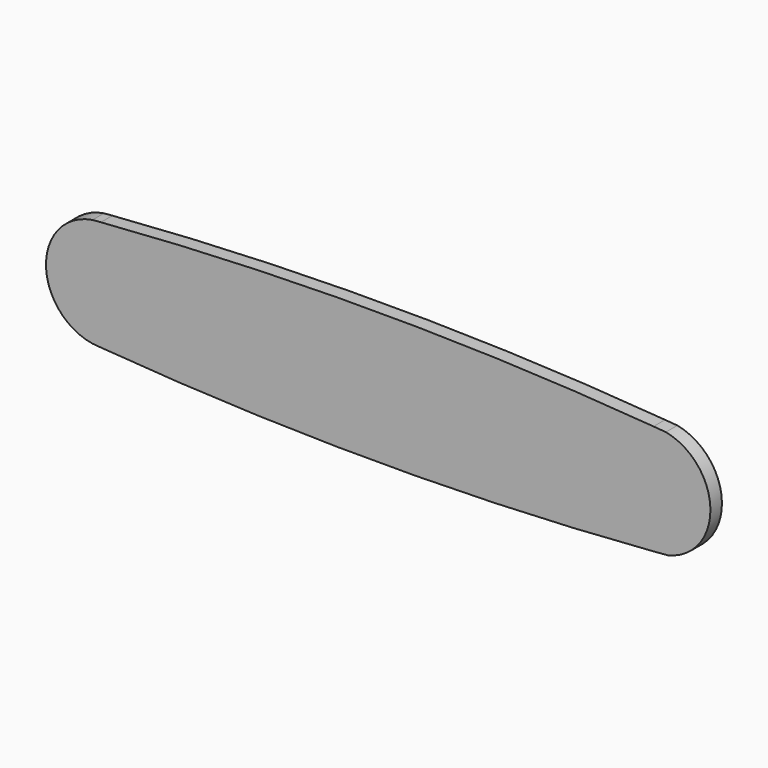
from build123d import *

# Parameters (mm, degrees)
F1_DEPTH = 20


with BuildPart() as f1:
    # F0 (on Front) → F1 (new body)
    with BuildSketch(Plane.XZ):
        with BuildLine():
            ThreePointArc((-49.4118990528, 76.6105545521), (-55.2587939096, 76.1429402719), (-61.1051189604, 75.6682551314))
            ThreePointArc((-61.1051189604, 75.6682551314), (-125.7336557681, -0.1960582776), (-60.7176724626, -75.7285925508))
            ThreePointArc((-60.7176724626, -75.7285925508), (-55.2247015197, -76.1717591135), (-49.7312305742, -76.6086839955))
            ThreePointArc((-49.7312305742, -76.6086839955), (4.8338825494, -54.3869132705), (27.4882933615, 0))
            ThreePointArc((27.4882933615, 0), (4.9471154779, 54.2743416868), (-49.4118990528, 76.6105545521))
        make_face()
        with BuildLine():
            ThreePointArc((718.501257532, 76.5742487534), (334.5453989179, 91.8145012916), (-49.4118990528, 76.6105545521))
            ThreePointArc((-49.4118990528, 76.6105545521), (4.9471154779, 54.2743416868), (27.4882933615, 0))
            Line((27.4882933615, 0), (644.2660933615, 0))
            ThreePointArc((644.2660933615, 0), (665.8713586681, 53.3255922882), (718.501257532, 76.5742487534))
        make_face()
        with BuildLine():
            ThreePointArc((27.4882933615, 0), (4.8338825494, -54.3869132705), (-49.7312305742, -76.6086839955))
            ThreePointArc((-49.7312305742, -76.6086839955), (333.0745823568, -91.6587174557), (715.8740266059, -76.4475569631))
            ThreePointArc((715.8740266059, -76.4475569631), (664.9640520089, -52.3734786632), (644.2660933615, 0))
            Line((644.2660933615, 0), (27.4882933615, 0))
        make_face()
        with BuildLine():
            ThreePointArc((735.582371802, 75.1865571112), (727.0424275905, 75.8879474157), (718.501257532, 76.5742487534))
            ThreePointArc((718.501257532, 76.5742487534), (665.8713586681, 53.3255922882), (644.2660933615, 0))
            ThreePointArc((644.2660933615, 0), (664.9640520089, -52.3734786632), (715.8740266059, -76.4475569631))
            ThreePointArc((715.8740266059, -76.4475569631), (727.0504682983, -75.5472890184), (738.2247988082, -74.6211848504))
            ThreePointArc((738.2247988082, -74.6211848504), (780.8700253452, -47.6457842184), (797.4882933615, 0))
            ThreePointArc((797.4882933615, 0), (780.0204116508, 48.6964102742), (735.582371802, 75.1865571112))
        make_face()
    extrude(amount=F1_DEPTH)


solid = f1.part
